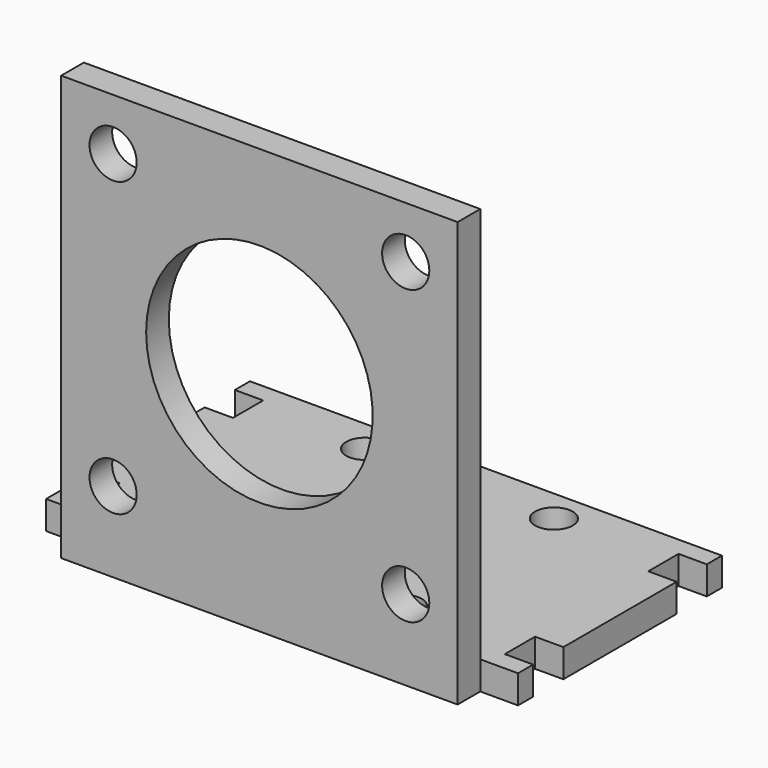
from build123d import *

# Parameters (mm, degrees)
F0_W      = 42
F0_H      = 27
F1_DEPTH  = 3
F0_H_2    = 3
F2_DEPTH  = 45
F4_D      = 4
F6_D      = 5
F7_R      = 12
F8_DEPTH  = 25
F9_W      = 27
F9_H      = 3
F10_DEPTH = 4
F11_W     = 3
F11_H     = 4
F12_DEPTH = 25
F13_W     = 27
F13_H     = 3
F14_DEPTH = 4
F15_W     = 3
F15_H     = 4
F16_DEPTH = 25


with BuildPart() as f1:
    # F0 (on Top) → F1 (new body)
    with BuildSketch(Plane.XY):
        with Locations((0, 1.5)):
            Rectangle(F0_W, F0_H)
    extrude(amount=F1_DEPTH)

    # F0 (on Top) → F2 (join)
    with BuildSketch(Plane.XY):
        with Locations((0, -13.5)):
            Rectangle(F0_W, F0_H_2)
    extrude(amount=F2_DEPTH)

    # F4 (through all)
    with Locations(Plane.XY.offset(3)):
        with Locations((10, -8.5), (10, 11.5), (-10, 11.5), (-10, -8.5)):
            Hole(F4_D / 2)

    # F6 (through all)
    with Locations(Plane(origin=(0, -12, 0), x_dir=(-1, 0, 0), z_dir=(0, 1, 0))):
        with Locations((-15.5, 39.5), (-15.5, 8.5), (15.5, 8.5), (15.5, 39.5)):
            Hole(F6_D / 2)

    # F7 (on face) → F8 (cut)
    with BuildSketch(Plane(origin=(0, -12, 0), x_dir=(-1, 0, 0), z_dir=(0, 1, 0))):
        with Locations((0, 24)):
            Circle(F7_R)
    extrude(amount=-F8_DEPTH, mode=Mode.SUBTRACT)

    # F9 (on face) → F10 (join)
    with BuildSketch(Plane(origin=(-21, 0, 0), x_dir=(0, -1, 0), z_dir=(-1, 0, 0))):
        with Locations((-1.5, 1.5)):
            Rectangle(F9_W, F9_H)
    extrude(amount=F10_DEPTH)

    # F11 (on face) → F12 (cut)
    with BuildSketch(Plane.XY.offset(3)):
        with Locations((-23.5, 11)):
            Rectangle(F11_W, F11_H)
        with Locations((-23.5, 11)):
            Rectangle(F11_W, F11_H)
        with Locations((-23.5, -8)):
            Rectangle(F11_W, F11_H)
        with Locations((-23.5, -8)):
            Rectangle(F11_W, F11_H)
    extrude(amount=-F12_DEPTH, mode=Mode.SUBTRACT)

    # F13 (on face) → F14 (join)
    with BuildSketch(Plane.YZ.offset(21)):
        with Locations((1.5, 1.5)):
            Rectangle(F13_W, F13_H)
    extrude(amount=F14_DEPTH)

    # F15 (on face) → F16 (cut)
    with BuildSketch(Plane.XY.offset(3)):
        with Locations((23.5, 11)):
            Rectangle(F15_W, F15_H)
        with Locations((23.5, -8)):
            Rectangle(F15_W, F15_H)
    extrude(amount=-F16_DEPTH, mode=Mode.SUBTRACT)


solid = f1.part
